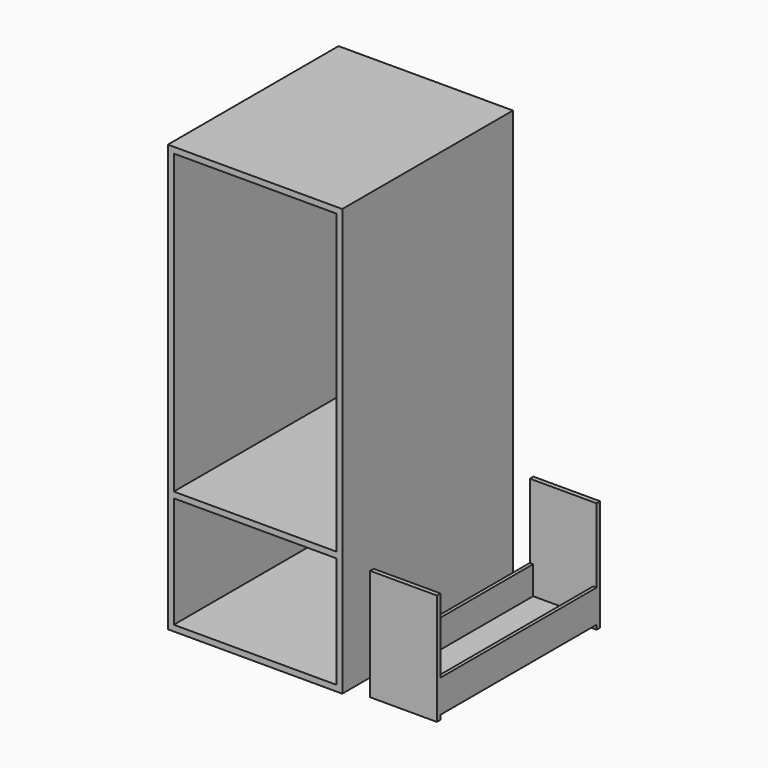
from build123d import *

# Parameters (mm, degrees)
F0_W      = 470
F0_H      = 1150
F1_DEPTH  = 575
F2_W      = 438
F2_H      = 1118
F3_DEPTH  = 575
F4_W      = 438
F4_H      = 16
F5_DEPTH  = 575
F6_W      = 180
F6_H      = 300
F7_DEPTH  = 12
F8_W      = 162
F8_H      = 12
F9_DEPTH  = 550
F11_DEPTH = 12


with BuildPart() as f1:
    # F0 (on Front) → F1 (new body)
    with BuildSketch(Plane.XZ):
        with Locations((235, 575)):
            Rectangle(F0_W, F0_H)
    extrude(amount=-F1_DEPTH)

    # F2 (on face) → F3 (cut)
    with BuildSketch(Plane.XZ):
        with Locations((235, 575)):
            Rectangle(F2_W, F2_H)
    extrude(amount=-F3_DEPTH, mode=Mode.SUBTRACT)

    # F4 (on face) → F5 (join)
    with BuildSketch(Plane.XZ):
        with Locations((235, 324)):
            Rectangle(F4_W, F4_H)
    extrude(amount=-F5_DEPTH)


with BuildPart() as f7:
    # F6 (on Front) → F7 (new body)
    with BuildSketch(Plane.XZ):
        with Locations((635, 166)):
            Rectangle(F6_W, F6_H)
    extrude(amount=-F7_DEPTH)

    # F8 (on face) → F9 (join)
    with BuildSketch(Plane.XZ):
        Polygon((554, 116), (545, 116), (545, 28), (554, 28), (554, 40), align=None)
        with Locations((635, 34)):
            Rectangle(F8_W, F8_H)
        Polygon((725, 28), (725, 116), (716, 116), (716, 40), (716, 28), align=None)
    extrude(amount=-F9_DEPTH)

    # F10 (on face) → F11 (join)
    with BuildSketch(Plane(origin=(0, 550, 0), x_dir=(-1, 0, 0), z_dir=(0, 1, 0))):
        Polygon((-545, 116), (-554, 116), (-554, 40), (-716, 40), (-716, 116), (-725, 116), (-725, 16), (-545, 16), align=None)
        Polygon((-545, 116), (-554, 116), (-554, 40), (-716, 40), (-716, 116), (-725, 116), (-725, 16), (-545, 16), align=None)
        Polygon((-554, 40), (-554, 116), (-545, 116), (-545, 316), (-725, 316), (-725, 116), (-716, 116), (-716, 40), align=None)
    extrude(amount=-F11_DEPTH)


solid = Compound([f1.part, f7.part])
